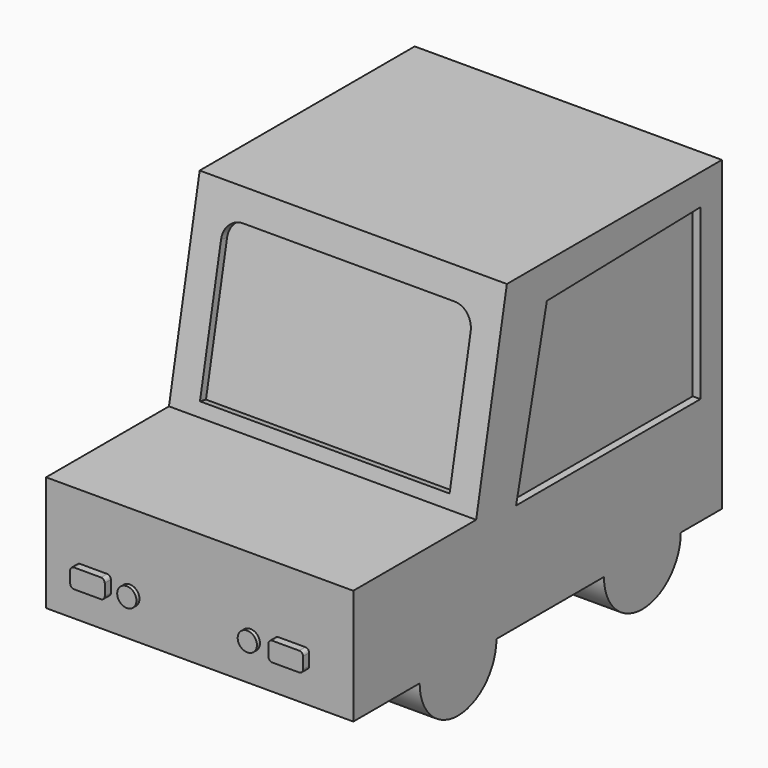
from build123d import *

# Parameters (mm, degrees)
F1_DEPTH  = 80
F3_DEPTH  = 2
F5_DEPTH  = 2
F7_DEPTH  = 2
F9_DEPTH  = 2
F10_R     = 2.5
F11_DEPTH = 1
F13_DEPTH = 2
F14_W     = 9
F14_H     = 5
F15_DEPTH = 3
F16_R     = 2
F17_DEPTH = 2


with BuildPart() as f1:
    # F0 (on Right) → F1 (new body)
    with BuildSketch(Plane.YZ):
        with BuildLine():
            Line((56.9827339551, -40.4682084375), (56.9827339551, 39.5317915625))
            Line((56.9827339551, 39.5317915625), (-13.0172660449, 39.5317915625))
            Line((-13.0172660449, 39.5317915625), (-23.0172660449, -10.4682084375))
            Line((-23.0172660449, -10.4682084375), (-63.0172660449, -10.4682084375))
            Line((-63.0172660449, -10.4682084375), (-63.0172660449, -40.4682084375))
            Line((-63.0172660449, -40.4682084375), (-41.4112906903, -40.4682084375))
            ThreePointArc((-41.4112906903, -40.4682084375), (-28.9112906903, -27.9682084375), (-16.4112906903, -40.4682084375))
            Line((-16.4112906903, -40.4682084375), (18.5887116939, -40.4682084375))
            ThreePointArc((18.5887116939, -40.4682084375), (31.0887116939, -27.9682084375), (43.5887116939, -40.4682084375))
            Line((43.5887116939, -40.4682084375), (56.9827339551, -40.4682084375))
        make_face()
        with BuildLine():
            Line((-41.4112906903, -40.4682084375), (-16.4112906903, -40.4682084375))
            ThreePointArc((-16.4112906903, -40.4682084375), (-28.9112906903, -27.9682084375), (-41.4112906903, -40.4682084375))
        make_face()
        with BuildLine():
            ThreePointArc((-41.4112906903, -40.4682084375), (-28.9112906903, -52.9682084375), (-16.4112906903, -40.4682084375))
            Line((-16.4112906903, -40.4682084375), (-41.4112906903, -40.4682084375))
        make_face()
        with BuildLine():
            ThreePointArc((18.5887116939, -40.4682084375), (31.0887116939, -52.9682084375), (43.5887116939, -40.4682084375))
            Line((43.5887116939, -40.4682084375), (18.5887116939, -40.4682084375))
        make_face()
        with BuildLine():
            Line((18.5887116939, -40.4682084375), (43.5887116939, -40.4682084375))
            ThreePointArc((43.5887116939, -40.4682084375), (31.0887116939, -27.9682084375), (18.5887116939, -40.4682084375))
        make_face()
    extrude(amount=F1_DEPTH)

    # F2 (on face) → F3 (cut)
    with BuildSketch(Plane.YZ.offset(80)):
        Polygon((49.9866685293, 31.5270468074), (0, 30.3725038928), (-10.0133314707, -12.4729531926), (49.9866685293, -12.4729531926), align=None)
    extrude(amount=-F3_DEPTH, mode=Mode.SUBTRACT)

    # F4 (on face) → F5 (cut)
    with BuildSketch(Plane(origin=(0, 0, 0), x_dir=(0, -1, 0), z_dir=(-1, 0, 0))):
        Polygon((10.0133314707, -9.3607458684), (0, 33.484711217), (-49.9866685293, 34.6392541316), (-49.9866685293, -9.3607458684), align=None)
    extrude(amount=-F5_DEPTH, mode=Mode.SUBTRACT)

    # F6 (on face) → F7 (cut)
    with BuildSketch(Plane(origin=(0, -20.1188695744, 4.0237739149), x_dir=(1, 0, 0), z_dir=(0, -0.9805806757, 0.1961161351))):
        with BuildLine():
            ThreePointArc((12.5413901359, 28.6179297172), (9.00585623, 27.1534636231), (7.5413901359, 23.6179297172))
            Line((7.5413901359, 23.6179297172), (7.5413901359, -11.3820702828))
            Line((7.5413901359, -11.3820702828), (72.5413901359, -11.3820702828))
            Line((72.5413901359, -11.3820702828), (72.5413901359, 23.6179297172))
            ThreePointArc((72.5413901359, 23.6179297172), (71.0769240418, 27.1534636231), (67.5413901359, 28.6179297172))
            Line((67.5413901359, 28.6179297172), (12.5413901359, 28.6179297172))
        make_face()
    extrude(amount=-F7_DEPTH, mode=Mode.SUBTRACT)

    # F8 (on face) → F9 (join)
    with BuildSketch(Plane.XZ.offset(63.0172660449)):
        with BuildLine():
            ThreePointArc((16.8799156292, -28.4473337126), (16.5870224104, -27.7402269314), (15.8799156292, -27.4473337126))
            Line((15.8799156292, -27.4473337126), (8.8799156292, -27.4473337126))
            ThreePointArc((8.8799156292, -27.4473337126), (8.172808848, -27.7402269314), (7.8799156292, -28.4473337126))
            Line((7.8799156292, -28.4473337126), (7.8799156292, -31.4473337126))
            ThreePointArc((7.8799156292, -31.4473337126), (8.172808848, -32.1544404937), (8.8799156292, -32.4473337126))
            Line((8.8799156292, -32.4473337126), (15.8799156292, -32.4473337126))
            ThreePointArc((15.8799156292, -32.4473337126), (16.5870224104, -32.1544404937), (16.8799156292, -31.4473337126))
            Line((16.8799156292, -31.4473337126), (16.8799156292, -28.4473337126))
        make_face()
        with BuildLine():
            ThreePointArc((68.5099807539, -28.4473337126), (68.2170875351, -27.7402269314), (67.5099807539, -27.4473337126))
            Line((67.5099807539, -27.4473337126), (60.5099807539, -27.4473337126))
            ThreePointArc((60.5099807539, -27.4473337126), (59.8028739727, -27.7402269314), (59.5099807539, -28.4473337126))
            Line((59.5099807539, -28.4473337126), (59.5099807539, -31.4473337126))
            ThreePointArc((59.5099807539, -31.4473337126), (59.8028739727, -32.1544404937), (60.5099807539, -32.4473337126))
            Line((60.5099807539, -32.4473337126), (67.5099807539, -32.4473337126))
            ThreePointArc((67.5099807539, -32.4473337126), (68.2170875351, -32.1544404937), (68.5099807539, -31.4473337126))
            Line((68.5099807539, -31.4473337126), (68.5099807539, -28.4473337126))
        make_face()
    extrude(amount=F9_DEPTH)

    # F10 (on face) → F11 (join)
    with BuildSketch(Plane.XZ.offset(63.0172660449)):
        with Locations((21.8240363776, -30.4359253496)):
            Circle(F10_R)
        with Locations((53.2039631238, -30.4221354475)):
            Circle(F10_R)
    extrude(amount=F11_DEPTH)

    # F12 (on face) → F13 (cut)
    with BuildSketch(Plane(origin=(0, 56.9827339551, 0), x_dir=(-1, 0, 0), z_dir=(0, 1, 0))):
        with BuildLine():
            Line((-11.3534486648, 31.5445680549), (-71.3534486648, 31.5445680549))
            ThreePointArc((-71.3534486648, 31.5445680549), (-73.4747690083, 30.6658883985), (-74.3534486648, 28.5445680549))
            Line((-74.3534486648, 28.5445680549), (-74.3534486648, -3.4554319451))
            Line((-74.3534486648, -3.4554319451), (-8.3534486648, -3.4554319451))
            Line((-8.3534486648, -3.4554319451), (-8.3534486648, 28.5445680549))
            ThreePointArc((-8.3534486648, 28.5445680549), (-9.2321283212, 30.6658883985), (-11.3534486648, 31.5445680549))
        make_face()
    extrude(amount=-F13_DEPTH, mode=Mode.SUBTRACT)

    # F14 (on face) → F15 (join)
    with BuildSketch(Plane(origin=(0, 56.9827339551, 0), x_dir=(-1, 0, 0), z_dir=(0, 1, 0))):
        with Locations((-66.6173999912, -29.532836911)):
            Rectangle(F14_W, F14_H)
        with Locations((-15.7938591157, -29.8857766254)):
            Rectangle(F14_W, F14_H)
    extrude(amount=F15_DEPTH)

    # F16 (on face) → F17 (join)
    with BuildSketch(Plane(origin=(0, 56.9827339551, 0), x_dir=(-1, 0, 0), z_dir=(0, 1, 0))):
        with Locations((-24.1537547966, -30.3156095468)):
            Circle(F16_R)
        with Locations((-58.2354065123, -29.9409476741)):
            Circle(F16_R)
    extrude(amount=F17_DEPTH)


solid = f1.part
